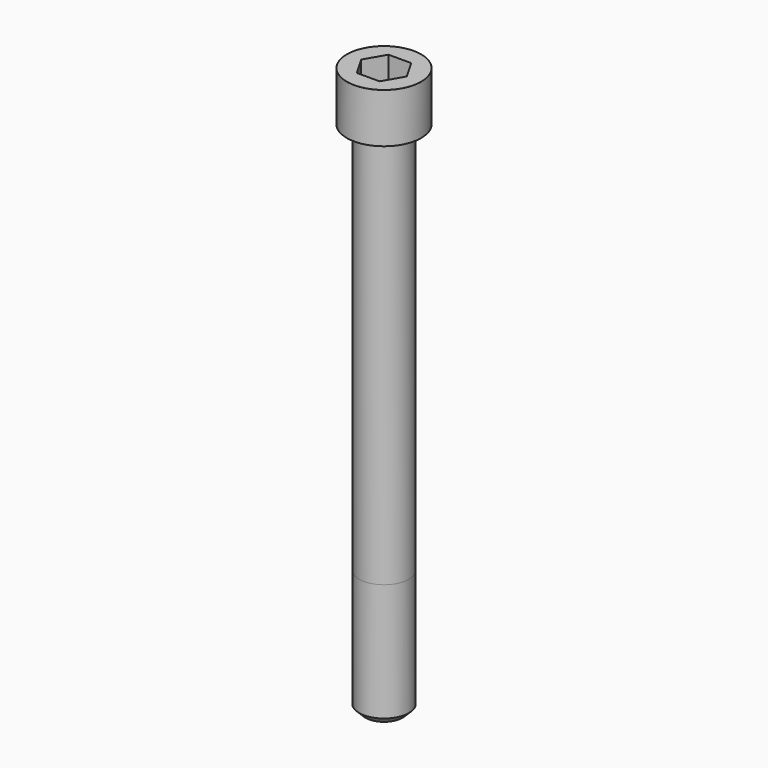
from build123d import *

# Parameters (mm, degrees)
POCKET_DEPTH = 19.15


with BuildPart() as part:
    # Sketch → Revolve (revolve)
    with BuildSketch(Plane.YZ):
        with BuildLine():
            Line((11.999, 0), (18, 0))
            Line((18, 0), (18, 23.97229))
            ThreePointArc((18, 23.97229), (17.991884, 23.991884), (17.97229, 24))
            Line((17.97229, 24), (0, 24))
            Line((0, -250), (0, 24))
            Line((9, -250), (0, -250))
            Line((12, -247), (9, -250))
            Line((12, -190), (12, -247))
            Line((11.999, 0), (12, -190))
        make_face()
    revolve(axis=Axis((0, 0, 0), (0, 0, 1)))

    # Sketch001 → Pocket (cut)
    with BuildSketch(Plane.XY.offset(24)):
        Polygon((11.056258, 0), (5.528129, 9.575), (-5.528129, 9.575), (-11.056258, 0), (-5.528129, -9.575), (5.528129, -9.575), align=None)
    extrude(amount=-POCKET_DEPTH, mode=Mode.SUBTRACT)


solid = part.part
